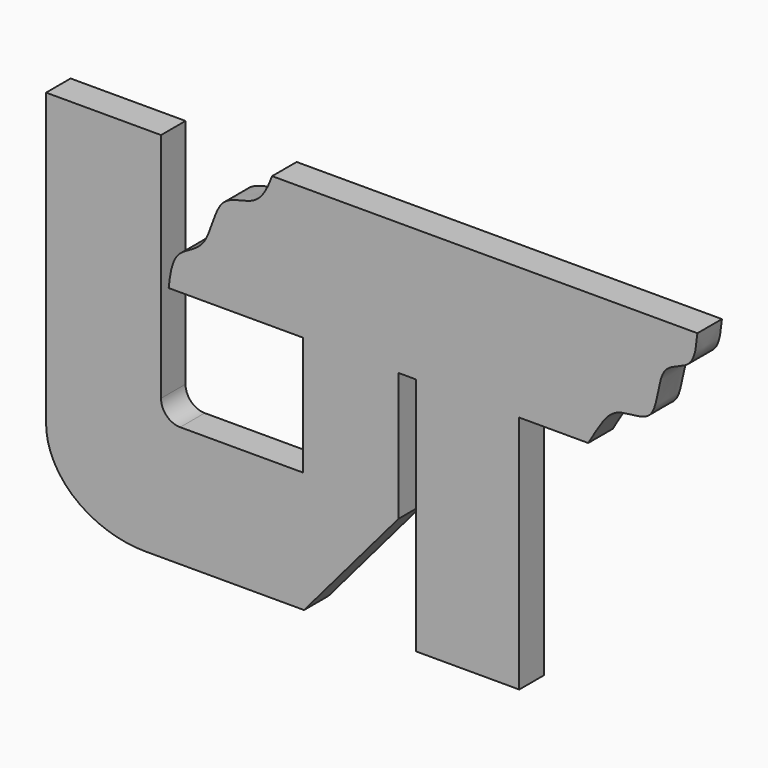
from build123d import *

# Parameters (mm, degrees)
F1_DEPTH = 12.7


with BuildPart() as f1:
    # F0 (on Front) → F1 (new body)
    with BuildSketch(Plane.XZ):
        with BuildLine():
            Line((-7.642572403, 62.1182467163), (-55.267572403, 62.1182467163))
            Line((-55.267572403, 62.1182467163), (-55.267572403, -58.5317532837))
            add(Edge.make_bspline(
                [(-55.267572403, -58.5317532837), (-55.267572403, -91.8692532837), (-13.992572403, -91.8692532837)],
                knots=[3.1415926536, 3.1415926536, 3.1415926536, 4.7123889804, 4.7123889804, 4.7123889804], degree=2, weights=[1, 0.7071067812, 1]))
            Line((-13.992572403, -91.8692532837), (51.6240942637, -91.8692532837))
            Line((51.6240942637, -91.8692532837), (90.782427597, -45.8317532837))
            Line((90.782427597, -45.8317532837), (90.782427597, 7.3494967163))
            Line((90.782427597, 7.3494967163), (97.926177597, 7.3494967163))
            Line((97.926177597, 7.3494967163), (97.926177597, -91.8692532837))
            Line((97.926177597, -91.8692532837), (140.788677597, -91.8692532837))
            Line((140.788677597, -91.8692532837), (140.788677597, 7.3494967163))
            Line((140.788677597, 7.3494967163), (169.363677597, 7.3494967163))
            add(Edge.make_bspline(
                [(214.607427597, 62.1182467163), (214.1556462463, 57.1983312797), (213.2964146513, 47.5499207607), (197.4129422689, 47.1197644101), (199.0665268833, 21.2468611606), (178.3957043389, 25.7652184238), (173.2198620111, 13.4591346911), (169.363677597, 7.3494967163)],
                knots=[0, 0, 0, 0, 0.1845640307, 0.3586006751, 0.58149123, 0.776090966, 1, 1, 1, 1], degree=3))
            Line((214.607427597, 62.1182467163), (38.394927597, 62.1182467163))
            add(Edge.make_bspline(
                [(38.394927597, 62.1182467163), (36.6347400539, 57.3229056618), (32.5140534673, 48.4180986137), (14.9300075818, 49.4639351358), (12.5559273354, 26.0079004568), (-2.1105946111, 22.83652718), (-3.8436017495, 13.560358506), (-4.467572403, 7.3494967163)],
                knots=[0, 0, 0, 0, 0.1935921594, 0.3866517616, 0.6166980688, 0.7996065546, 1, 1, 1, 1], degree=3))
            Line((-4.467572403, 7.3494967163), (51.094927597, 7.3494967163))
            Line((51.094927597, 7.3494967163), (51.094927597, -41.8630032837))
            Line((51.094927597, -41.8630032837), (0.294927597, -41.8630032837))
            ThreePointArc((0.294927597, -41.8630032837), (-5.3177324786, -39.5381633594), (-7.642572403, -33.9255032837))
            Line((-7.642572403, -33.9255032837), (-7.642572403, 62.1182467163))
        make_face()
    extrude(amount=-F1_DEPTH)


solid = f1.part
